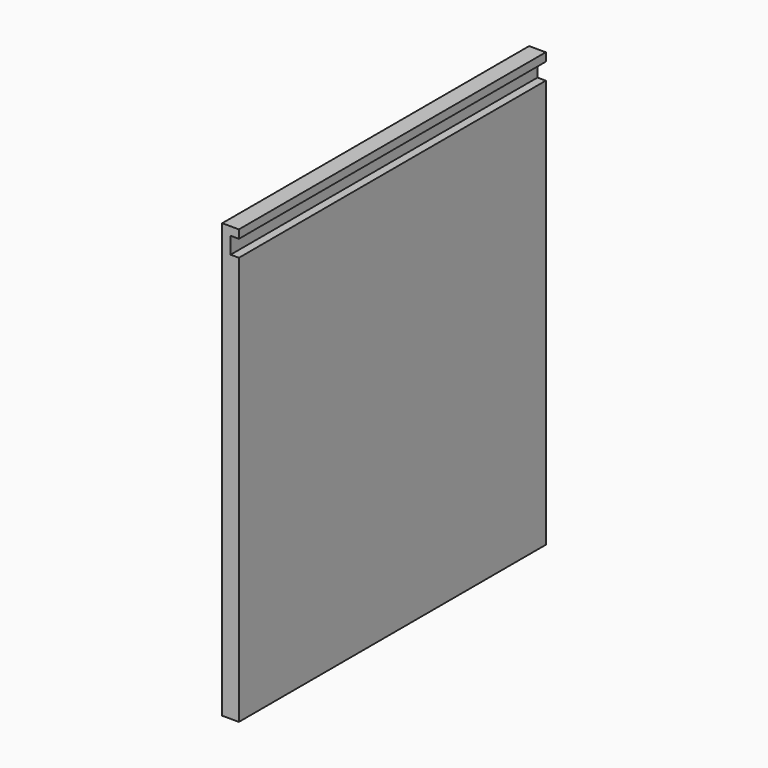
from build123d import *

# Parameters (mm, degrees)
F0_W     = 292.1
F0_H     = 304.8
F1_DEPTH = 12.7
F2_W     = 292.1
F2_H     = 25.4
F3_DEPTH = 12.7
F4_W     = 292.1
F4_H     = 12.7
F5_DEPTH = 6.35


with BuildPart() as f1:
    # F0 (on Right) → F1 (new body)
    with BuildSketch(Plane.YZ):
        with Locations((-146.05, 152.4)):
            Rectangle(F0_W, F0_H)
    extrude(amount=F1_DEPTH)

    # F2 (on Right) → F3 (join)
    with BuildSketch(Plane.YZ):
        with Locations((-146.05, -12.7)):
            Rectangle(F2_W, F2_H)
    extrude(amount=F3_DEPTH)

    # F4 (on face) → F5 (cut)
    with BuildSketch(Plane.YZ.offset(12.7)):
        with Locations((-146.05, 292.1)):
            Rectangle(F4_W, F4_H)
    extrude(amount=-F5_DEPTH, mode=Mode.SUBTRACT)


solid = f1.part
